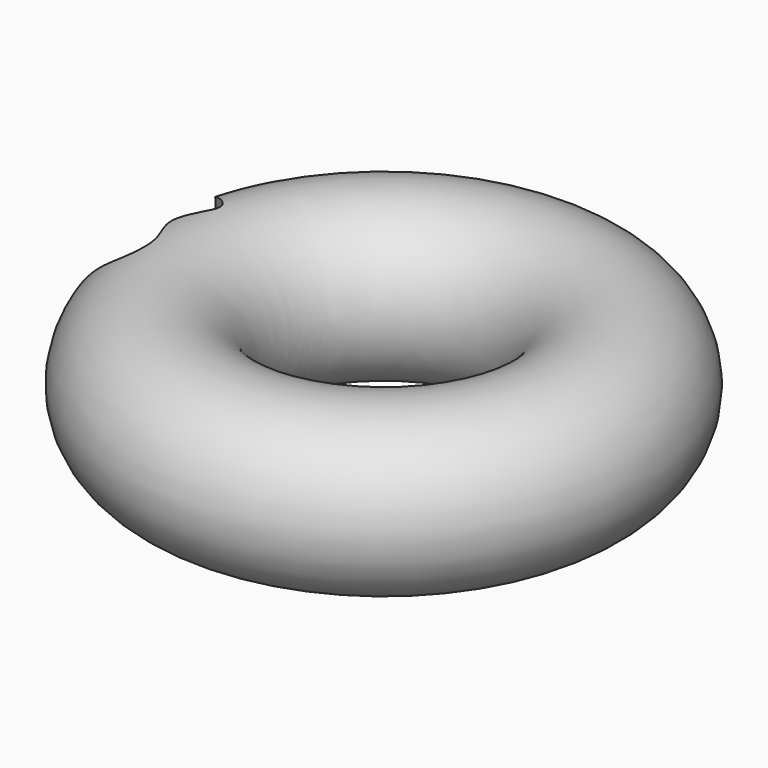
from build123d import *

# Parameters (mm, degrees)
F0_R     = 25.4
F6_DEPTH = 230.378
F7_SCALE = 0.25


with BuildPart() as f2:
    # F0 (on Front) → F2 (revolve)
    with BuildSketch(Plane.XZ):
        with Locations((-56.650445359, 0)):
            Circle(F0_R)
    revolve(axis=Axis((0, 0, -38.0238), (0, 0, -1)))

    # F5 (on offset) → F6 (cut)
    with BuildSketch(Plane.XY.offset(25.4)):
        with BuildLine():
            add(Edge.make_bspline(
                [(-73.4518021345, 36.288689822), (-70.994062093, 34.1674757975), (-65.9979793522, 29.8554816086), (-72.0987937557, 18.717426202), (-52.8267642226, 11.0416537059), (-69.1115270285, -0.0171037051), (-59.0091824454, -11.3334816517), (-62.2524152473, -25.3648181401), (-74.7754849314, -24.3151130718), (-74.6715155223, -32.397256982), (-74.6177062392, -36.5801639855)],
                knots=[0, 0, 0, 0, 0.1125102532, 0.2287103293, 0.3679799321, 0.4991017061, 0.6341141769, 0.7628778167, 0.877277607, 1, 1, 1, 1], degree=3))
            add(Edge.make_bspline(
                [(-74.6177062392, -36.5801639855), (-76.1749433028, -31.811450133), (-79.6769354255, -21.0873293566), (-85.1176937849, 2.5333735202), (-78.0343198671, 28.4859934356), (-74.670607669, 34.2134180839), (-73.4518021345, 36.288689822)],
                knots=[0, 0, 0, 0, 0.2344020594, 0.5271350039, 0.8286623705, 1, 1, 1, 1], degree=3))
        make_face()
    extrude(amount=-F6_DEPTH, mode=Mode.SUBTRACT)


with BuildPart() as f2_1:
    # F7: moved
    add(f2.part.scale(F7_SCALE))


solid = f2_1.part
